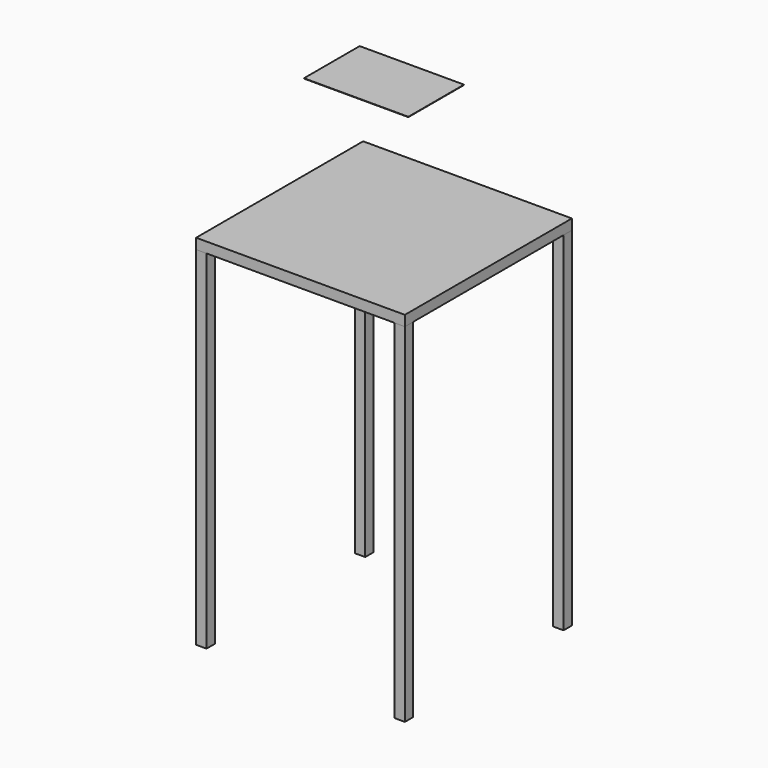
from build123d import *

# Parameters (mm, degrees)
F1_W     = 7.62
F1_H     = 7.62
F2_DEPTH = 254
F0_W     = 152.4
F0_H     = 152.4
F3_DEPTH = 7.62
F5_W     = 76.2
F5_H     = 50.8
F6_DEPTH = 0.254


with BuildPart() as f2:
    # F1 (on face) → F2 (new body)
    with BuildSketch(Plane.XY):
        with Locations((-72.39, -72.39)):
            Rectangle(F1_W, F1_H)
    extrude(amount=-F2_DEPTH)


with BuildPart() as f2b:
    # F1 (on face) → F2, piece 2 (new body)
    with BuildSketch(Plane.XY):
        with Locations((72.39, -72.39)):
            Rectangle(F1_W, F1_H)
    extrude(amount=-F2_DEPTH)


with BuildPart() as f2c:
    # F1 (on face) → F2, piece 3 (new body)
    with BuildSketch(Plane.XY):
        with Locations((72.39, 72.39)):
            Rectangle(F1_W, F1_H)
    extrude(amount=-F2_DEPTH)


with BuildPart() as f2d:
    # F1 (on face) → F2, piece 4 (new body)
    with BuildSketch(Plane.XY):
        with Locations((-72.39, 72.39)):
            Rectangle(F1_W, F1_H)
    extrude(amount=-F2_DEPTH)


with BuildPart() as f3:
    # F0 (on Top) → F3 (new body)
    with BuildSketch(Plane.XY):
        Rectangle(F0_W, F0_H)
    extrude(amount=F3_DEPTH)


with BuildPart() as f6:
    # F5 (on offset) → F6 (new body)
    with BuildSketch(Plane.XY.offset(101.6)):
        Rectangle(F5_W, F5_H)
    extrude(amount=F6_DEPTH)


solid = Compound([f2.part, f2b.part, f2c.part, f2d.part, f3.part, f6.part])
